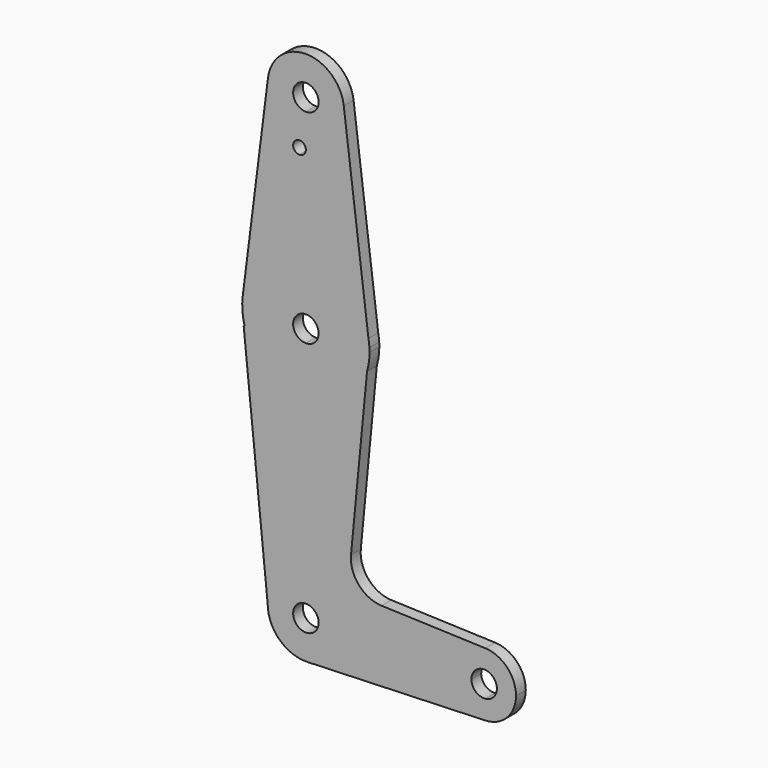
from build123d import *

# Parameters (mm, degrees)
F1_DEPTH = 3.048


with BuildPart() as f1:
    # F0 (on Front) → F1 (new body)
    with BuildSketch(Plane.XZ):
        with BuildLine():
            Line((-1.5875, 101.187330657), (-1.5875, 79.2954255641))
            ThreePointArc((-1.5875, 79.2954255641), (-0.7947465541, 79.3550939106), (0, 79.375))
            Line((0, 79.375), (0, 102.774830657))
            ThreePointArc((0, 102.774830657), (-0.4649679849, 101.6522986419), (-1.5875, 101.187330657))
        make_face()
        with BuildLine():
            Line((15.601805176, 66.4324563508), (15.8428094445, 64.5104523269))
            ThreePointArc((15.8428094445, 64.5104523269), (15.7516498192, 65.4751336599), (15.601805176, 66.4324563508))
        make_face()
        with BuildLine():
            ThreePointArc((-9.525, 0), (-6.7351920908, 6.7351920908), (0, 9.525))
            Line((0, 9.525), (0, 47.625))
            ThreePointArc((0, 47.625), (-9.5355784549, 50.8079407293), (-15.2473860699, 59.0804023898))
            Line((-15.2473860699, 59.0804023898), (-15.508598514, 59.0804023898))
            Line((-15.508598514, 59.0804023898), (-9.525, 0))
        make_face()
        with BuildLine():
            ThreePointArc((-15.2473860699, 59.0804023898), (-9.5355784549, 50.8079407293), (0, 47.625))
            Line((0, 47.625), (0, 59.0804023898))
            Line((0, 59.0804023898), (-15.2473860699, 59.0804023898))
        make_face()
        with BuildLine():
            Line((0, 59.0804023898), (0, 47.625))
            ThreePointArc((0, 47.625), (9.5355784549, 50.8079407293), (15.2473860699, 59.0804023898))
            Line((15.2473860699, 59.0804023898), (0, 59.0804023898))
        make_face()
        with BuildLine():
            ThreePointArc((9.4509898915, 115.485080196), (0, 123.825), (-9.4509898915, 115.485080196))
            Line((-9.4509898915, 115.485080196), (-2.9455406854, 115.485080196))
            ThreePointArc((-2.9455406854, 115.485080196), (0, 117.475), (2.9455406854, 115.485080196))
            Line((2.9455406854, 115.485080196), (9.4509898915, 115.485080196))
        make_face()
        with BuildLine():
            Line((44.7324052746, -3.1624155737), (44.7324052746, -7.9324746146))
            ThreePointArc((44.7324052746, -7.9324746146), (50.1616327839, -5.5119104847), (52.3875, 0))
            ThreePointArc((52.3875, 0), (50.1616327839, 5.5119104847), (44.7324052746, 7.9324746146))
            Line((44.7324052746, 7.9324746146), (44.7324052746, 3.1624155737))
            ThreePointArc((44.7324052746, 3.1624155737), (46.79278272, 2.1428938673), (47.625, 0))
            ThreePointArc((47.625, 0), (46.79278272, -2.1428938673), (44.7324052746, -3.1624155737))
        make_face()
        with BuildLine():
            Line((0, 3.175), (0, 9.525))
            ThreePointArc((0, 9.525), (-6.7351920908, 6.7351920908), (-9.525, 0))
            ThreePointArc((-9.525, 0), (-6.6138272112, -6.8544084078), (0.340178923, -9.5189234318))
            ThreePointArc((0.340178923, -9.5189234318), (6.8544084078, -6.6138272112), (9.525, 0))
            Line((9.525, 0), (3.175, 0))
            ThreePointArc((3.175, 0), (-2.2450640303, -2.2450640303), (0, 3.175))
        make_face()
        with BuildLine():
            ThreePointArc((9.525, 0), (6.8544084078, -6.6138272112), (0.340178923, -9.5189234318))
            Line((0.340178923, -9.5189234318), (44.7324052746, -7.9324746146))
            ThreePointArc((44.7324052746, -7.9324746146), (38.9380895153, -5.7116327839), (36.5125, 0))
            Line((36.5125, 0), (9.5688949395, 0))
            Line((9.5688949395, 0), (9.525, 0))
        make_face()
        with BuildLine():
            Line((0, 102.774830657), (0, 79.375))
            ThreePointArc((0, 79.375), (10.1356519383, 75.7181907329), (15.601805176, 66.4324563508))
            Line((15.601805176, 66.4324563508), (9.4509898915, 115.485080196))
            ThreePointArc((9.4509898915, 115.485080196), (9.5064794671, 114.8936944852), (9.525, 114.3))
            ThreePointArc((9.525, 114.3), (6.7351920908, 107.5648079092), (0, 104.775))
            Line((0, 104.775), (0, 102.774830657))
        make_face()
        with BuildLine():
            Line((-2.9455406854, 115.485080196), (-9.4509898915, 115.485080196))
            ThreePointArc((-9.4509898915, 115.485080196), (-7.1419014928, 107.9977093), (0, 104.775))
            Line((0, 104.775), (0, 111.125))
            ThreePointArc((0, 111.125), (-2.6308985748, 112.5226430609), (-2.9455406854, 115.485080196))
        make_face()
        with BuildLine():
            ThreePointArc((44.7324052746, 7.9324746146), (38.9380895153, 5.7116327839), (36.5125, 0))
            Line((36.5125, 0), (41.275, 0))
            ThreePointArc((41.275, 0), (42.3071061327, 2.34278272), (44.7324052746, 3.1624155737))
            Line((44.7324052746, 3.1624155737), (44.7324052746, 7.9324746146))
        make_face()
        with BuildLine():
            ThreePointArc((36.5125, 0), (38.9380895153, -5.7116327839), (44.7324052746, -7.9324746146))
            Line((44.7324052746, -7.9324746146), (44.7324052746, -3.1624155737))
            ThreePointArc((44.7324052746, -3.1624155737), (42.3071061327, -2.34278272), (41.275, 0))
            Line((41.275, 0), (36.5125, 0))
        make_face()
        with BuildLine():
            ThreePointArc((-15.7504882091, 65.4843755124), (-15.8262367729, 62.2566759847), (-15.2473860699, 59.0804023898))
            Line((-15.2473860699, 59.0804023898), (0, 59.0804023898))
            Line((0, 59.0804023898), (0, 60.325))
            ThreePointArc((0, 60.325), (-3.0668144985, 62.6782495318), (-1.5875, 66.249630657))
            Line((-1.5875, 66.249630657), (-1.5875, 79.2954255641))
            ThreePointArc((-1.5875, 79.2954255641), (-11.083218606, 74.8656451789), (-15.7504882091, 65.4843755124))
        make_face()
        with BuildLine():
            Line((-9.4509898915, 115.485080196), (-15.7504882091, 65.4843755124))
            ThreePointArc((-15.7504882091, 65.4843755124), (-11.083218606, 74.8656451789), (-1.5875, 79.2954255641))
            Line((-1.5875, 79.2954255641), (-1.5875, 101.187330657))
            ThreePointArc((-1.5875, 101.187330657), (-2.7100320151, 103.8973626721), (0, 102.774830657))
            Line((0, 102.774830657), (0, 104.775))
            ThreePointArc((0, 104.775), (-7.1419014928, 107.9977093), (-9.4509898915, 115.485080196))
        make_face()
        with BuildLine():
            Line((0, 47.625), (0, 9.525))
            ThreePointArc((0, 9.525), (6.7196908067, 6.75065778), (9.5248993225, 0.043793798))
            Line((9.5248993225, 0.043793798), (9.5688949395, 0))
            Line((9.5688949395, 0), (36.5125, 0))
            ThreePointArc((36.5125, 0), (38.9380895153, 5.7116327839), (44.7324052746, 7.9324746146))
            Line((44.7324052746, 7.9324746146), (18.8873853832, 8.8525872267))
            ThreePointArc((18.8873853832, 8.8525872267), (13.1916377499, 11.5573372898), (11.2565120829, 17.5583790875))
            Line((11.2565120829, 17.5583790875), (15.2473860699, 59.0804023898))
            ThreePointArc((15.2473860699, 59.0804023898), (9.5355784549, 50.8079407293), (0, 47.625))
        make_face()
        with BuildLine():
            Line((0, 59.0804023898), (15.2473860699, 59.0804023898))
            ThreePointArc((15.2473860699, 59.0804023898), (15.7173133655, 61.2680310104), (15.875, 63.5))
            ThreePointArc((15.875, 63.5), (15.8669503203, 64.0054824766), (15.8428094445, 64.5104523269))
            Line((15.8428094445, 64.5104523269), (15.601805176, 66.4324563508))
            ThreePointArc((15.601805176, 66.4324563508), (10.1356519383, 75.7181907329), (0, 79.375))
            Line((0, 79.375), (0, 66.675))
            ThreePointArc((0, 66.675), (2.2450640303, 65.7450640303), (3.175, 63.5))
            ThreePointArc((3.175, 63.5), (2.2450640303, 61.2549359697), (0, 60.325))
            Line((0, 60.325), (0, 59.0804023898))
        make_face()
        with BuildLine():
            ThreePointArc((0, 79.375), (-0.7947465541, 79.3550939106), (-1.5875, 79.2954255641))
            Line((-1.5875, 79.2954255641), (-1.5875, 66.249630657))
            ThreePointArc((-1.5875, 66.249630657), (-0.8217504682, 66.5668144985), (0, 66.675))
            Line((0, 66.675), (0, 79.375))
        make_face()
        with BuildLine():
            ThreePointArc((9.5248993225, 0.043793798), (6.7196908067, 6.75065778), (0, 9.525))
            Line((0, 9.525), (9.5248993225, 0.043793798))
        make_face()
        with BuildLine():
            Line((9.5248993225, 0.043793798), (0, 9.525))
            Line((0, 9.525), (0, 3.175))
            ThreePointArc((0, 3.175), (2.2450640303, 2.2450640303), (3.175, 0))
            Line((3.175, 0), (9.525, 0))
            ThreePointArc((9.525, 0), (9.5249748306, 0.0218969569), (9.5248993225, 0.043793798))
        make_face()
        with BuildLine():
            ThreePointArc((9.525, 114.3), (9.5064794671, 114.8936944852), (9.4509898915, 115.485080196))
            Line((9.4509898915, 115.485080196), (2.9455406854, 115.485080196))
            ThreePointArc((2.9455406854, 115.485080196), (3.1171073671, 114.9035450787), (3.175, 114.3))
            ThreePointArc((3.175, 114.3), (2.2450640303, 112.0549359697), (0, 111.125))
            Line((0, 111.125), (0, 104.775))
            ThreePointArc((0, 104.775), (6.7351920908, 107.5648079092), (9.525, 114.3))
        make_face()
    extrude(amount=F1_DEPTH)


solid = f1.part
